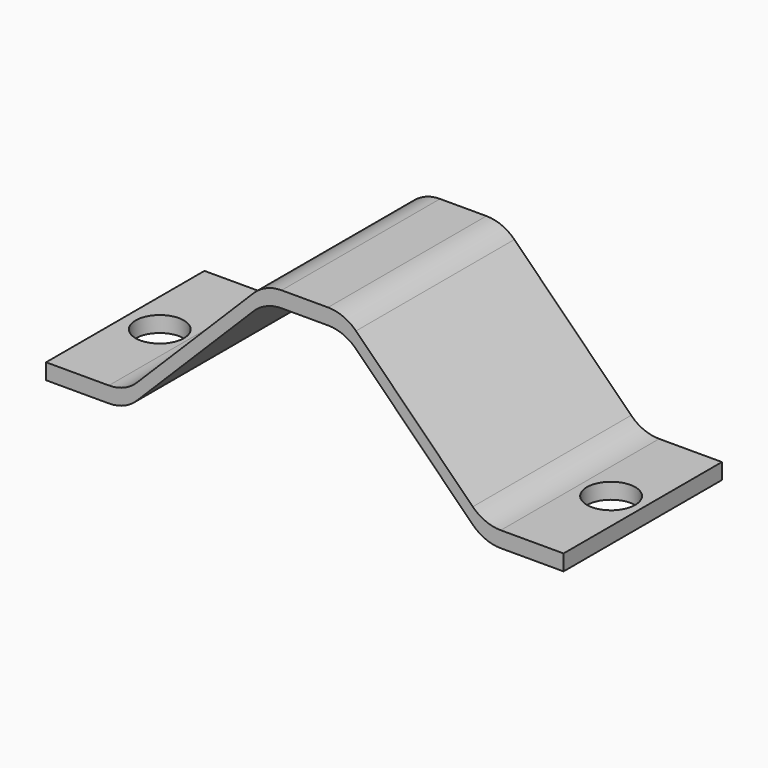
from build123d import *

# Parameters (mm, degrees)
F1_DEPTH = 25
F3_D     = 6.1


with BuildPart() as f1:
    # F0 (on Front) → F1 (new body)
    with BuildSketch(Plane.XZ):
        with BuildLine():
            Line((7.928932, 0), (0, 0))
            Line((0, 0), (0, -2))
            Line((0, -2), (7.928932, -2))
            ThreePointArc((7.928932, -2), (9.842349, -1.619398), (11.464466, -0.535534))
            Line((11.464466, -0.535534), (26.213203, 14.213203))
            ThreePointArc((26.213203, 14.213203), (27.83532, 15.297067), (29.748737, 15.67767))
            Line((29.748737, 15.67767), (35.606602, 15.67767))
            ThreePointArc((35.606602, 15.67767), (37.520019, 15.297067), (39.142136, 14.213203))
            Line((39.142136, 14.213203), (53.890873, -0.535534))
            ThreePointArc((53.890873, -0.535534), (55.51299, -1.619398), (57.426407, -2))
            Line((57.426407, -2), (65.355339, -2))
            Line((65.355339, -2), (65.355339, 0))
            Line((65.355339, 0), (57.426407, 0))
            ThreePointArc((57.426407, 0), (55.51299, 0.380602), (53.890873, 1.464466))
            Line((53.890873, 1.464466), (39.142136, 16.213203))
            ThreePointArc((39.142136, 16.213203), (37.520019, 17.297067), (35.606602, 17.67767))
            Line((35.606602, 17.67767), (29.748737, 17.67767))
            ThreePointArc((29.748737, 17.67767), (27.83532, 17.297067), (26.213203, 16.213203))
            Line((26.213203, 16.213203), (11.464466, 1.464466))
            ThreePointArc((11.464466, 1.464466), (9.842349, 0.380602), (7.928932, 0))
        make_face()
    extrude(amount=F1_DEPTH)

    # F3 (through all)
    with Locations(Plane.XY):
        with Locations((4.355, -12.5), (61.355339, -12.5)):
            Hole(F3_D / 2)


solid = f1.part
